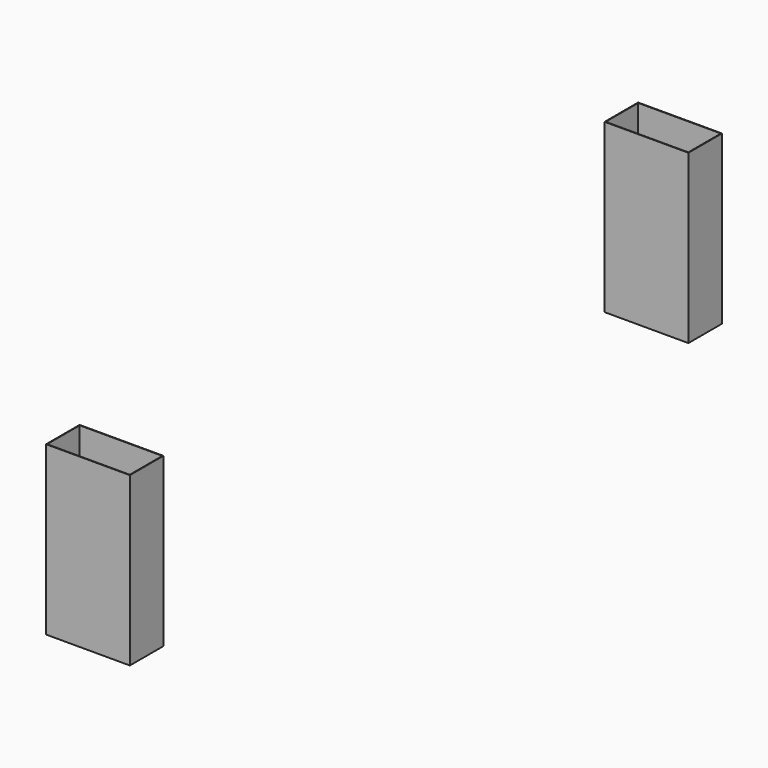
from build123d import *

# Parameters (mm, degrees)
F0_W     = 30
F0_H     = 15
F1_DEPTH = 60
F2_T     = -0.2
F2_2_T   = -0.2


with BuildPart() as f1:
    # F0 (on Top) → F1 (new body)
    with BuildSketch(Plane.XY):
        Rectangle(F0_W, F0_H)
    extrude(amount=F1_DEPTH)

    # F2
    f2_openings = [f1.faces().sort_by_distance(p)[0] for p in [
        (0, 0, 60),
    ]]
    offset(amount=F2_T, openings=f2_openings)


with BuildPart() as f1b:
    # F0 (on Top) → F1, piece 2 (new body)
    with BuildSketch(Plane.XY):
        with Locations((0, 250)):
            Rectangle(F0_W, F0_H)
    extrude(amount=F1_DEPTH)

    # F2#2
    f2_2_openings = [f1b.faces().sort_by_distance(p)[0] for p in [
        (0, 250, 60),
    ]]
    offset(amount=F2_2_T, openings=f2_2_openings)


solid = Compound([f1.part, f1b.part])
